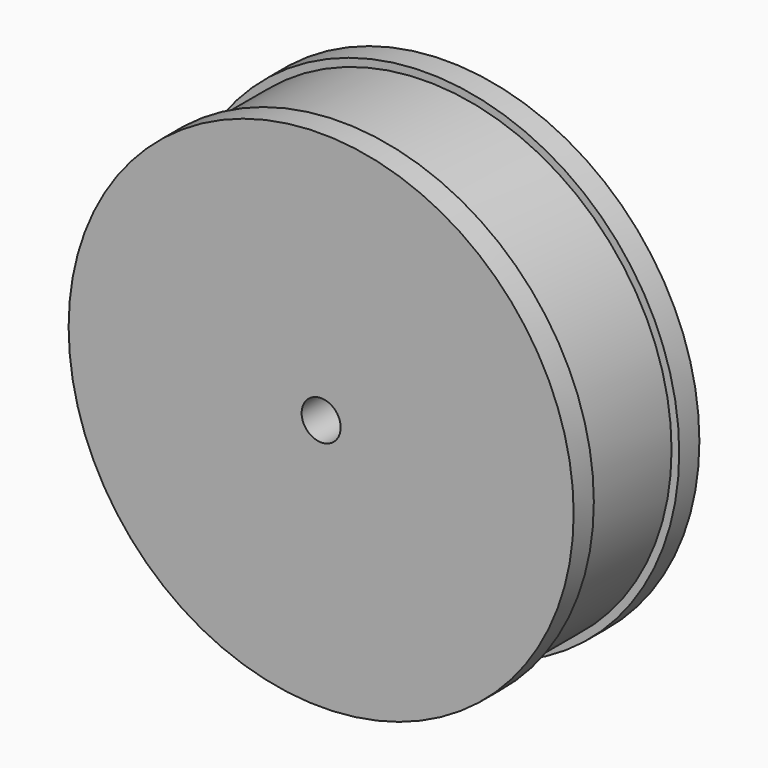
from build123d import *

# Parameters (mm, degrees)
SKETCH185_R            = 2.6
EXTRUDE200_DEPTH       = 10
SKETCH184_R            = 22.36068
EXTRUDE199_DEPTH       = 20
CUT127_PLACEMENT_ANGLE = 270


with BuildPart() as extrude200:
    # Sketch185 (on Face9 of Cut126) → Extrude200 (new body)
    with BuildSketch(Plane.XY.offset(5.82)):
        Circle(SKETCH185_R)
    extrude(amount=EXTRUDE200_DEPTH)


with BuildPart() as extrude200_1:
    # Extrude200 placement: moved
    add(extrude200.part.moved(Location((0, 0, -7.5))))


with BuildPart() as extrude199:
    # Sketch184 (on Face7 of Revolve005) → Extrude199 (new body)
    with BuildSketch(Plane.XY.offset(20.92)):
        Circle(SKETCH184_R)
    extrude(amount=EXTRUDE199_DEPTH)


with BuildPart() as extrude199_1:
    # Extrude199 placement: moved
    add(extrude199.part.moved(Location((0, 0, -15.1))))


with BuildPart() as obj1:
    # Sketch183 → Revolve005 (revolve)
    with BuildSketch(Plane.XZ):
        Polygon((0, 0), (33.62, 0), (33.62, 3.355495), (32.6, 3.355495), (32.6, 17.564505), (33.62, 17.564505), (33.62, 20.92), (0, 20.92), align=None)
    revolve(axis=Axis((0, 0, 0), (0, 0, 1)))

    # Cut126: cut Extrude199
    add(extrude199_1.part, mode=Mode.SUBTRACT)

    # Cut127: cut Extrude200
    add(extrude200_1.part, mode=Mode.SUBTRACT)


with BuildPart() as obj1_1:
    # Cut127 placement: moved
    add(obj1.part.moved(Location((69.3, 93, 9.45))).rotate(Axis((69.3, 93, 9.45), (1, 0, 0)), CUT127_PLACEMENT_ANGLE))


solid = obj1_1.part
